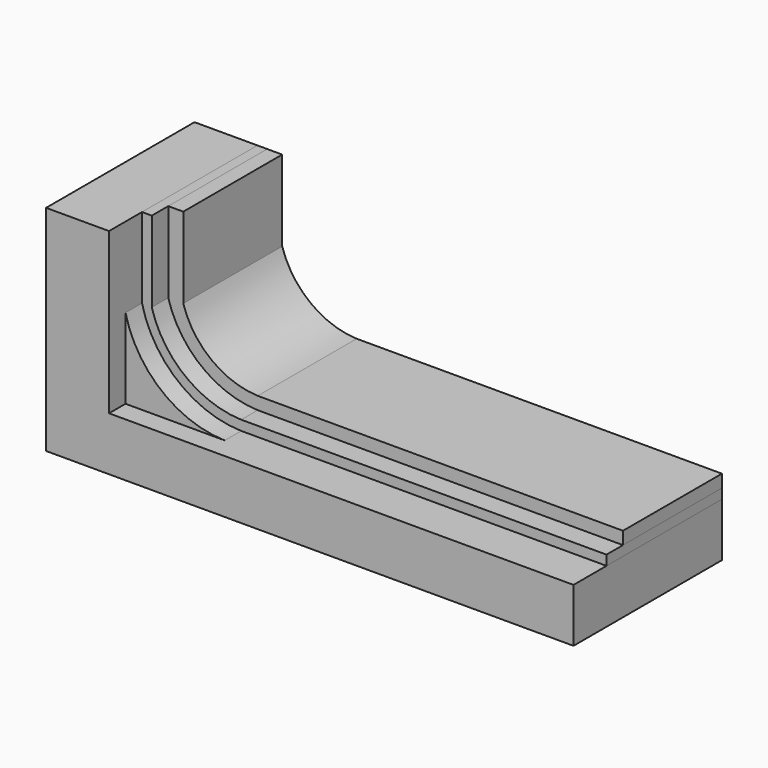
from build123d import *

# Parameters (mm, degrees)
F1_DEPTH = 90
F2_DEPTH = 80
F3_DEPTH = 70
F4_DEPTH = 60


with BuildPart() as f1:
    # F0 (on Front) → F1 (new body)
    with BuildSketch(Plane.XZ):
        Polygon((-113.582407, 46.314746), (-144.119631, 46.314746), (-144.119631, -57.553977), (111.772585, -57.553977), (111.772585, -31.516805), (-65.44818, -31.516805), (-113.582407, -31.516805), (-113.582407, 7.398971), align=None)
    extrude(amount=F1_DEPTH)


with BuildPart() as f2:
    # F0 (on Front) → F2 (new body)
    with BuildSketch(Plane.XZ):
        with BuildLine():
            ThreePointArc((-65.44818, -31.516805), (-96.138059, -20.250497), (-113.582407, 7.398971))
            Line((-113.582407, 7.398971), (-113.582407, -31.516805))
            Line((-113.582407, -31.516805), (-65.44818, -31.516805))
        make_face()
    extrude(amount=F2_DEPTH)


with BuildPart() as f3:
    # F0 (on Front) → F3 (new body)
    with BuildSketch(Plane.XZ):
        with BuildLine():
            Line((-108.843474, 46.314746), (-113.582407, 46.314746))
            Line((-113.582407, 46.314746), (-113.582407, 7.398971))
            ThreePointArc((-113.582407, 7.398971), (-96.138059, -20.250497), (-65.44818, -31.516805))
            Line((-65.44818, -31.516805), (111.772585, -31.516805))
            Line((111.772585, -31.516805), (111.772585, -26.724496))
            Line((111.772585, -26.724496), (-65.44818, -26.724496))
            ThreePointArc((-65.44818, -26.724496), (-92.695132, -16.89495), (-108.843474, 7.151827))
            Line((-108.843474, 7.151827), (-108.843474, 46.314746))
        make_face()
    extrude(amount=F3_DEPTH)


with BuildPart() as f4:
    # F0 (on Front) → F4 (new body)
    with BuildSketch(Plane.XZ):
        with BuildLine():
            Line((-101.56425, 46.314746), (-108.843474, 46.314746))
            Line((-108.843474, 46.314746), (-108.843474, 7.151827))
            ThreePointArc((-108.843474, 7.151827), (-92.695132, -16.89495), (-65.44818, -26.724496))
            Line((-65.44818, -26.724496), (111.772585, -26.724496))
            Line((111.772585, -26.724496), (111.772585, -20.591593))
            Line((111.772585, -20.591593), (-65.448172, -20.591593))
            ThreePointArc((-65.448172, -20.591593), (-87.931071, -12.498825), (-101.56425, 7.125397))
            Line((-101.56425, 7.125397), (-101.56425, 46.314746))
        make_face()
    extrude(amount=F4_DEPTH)


solid = Compound([f1.part, f2.part, f3.part, f4.part])
